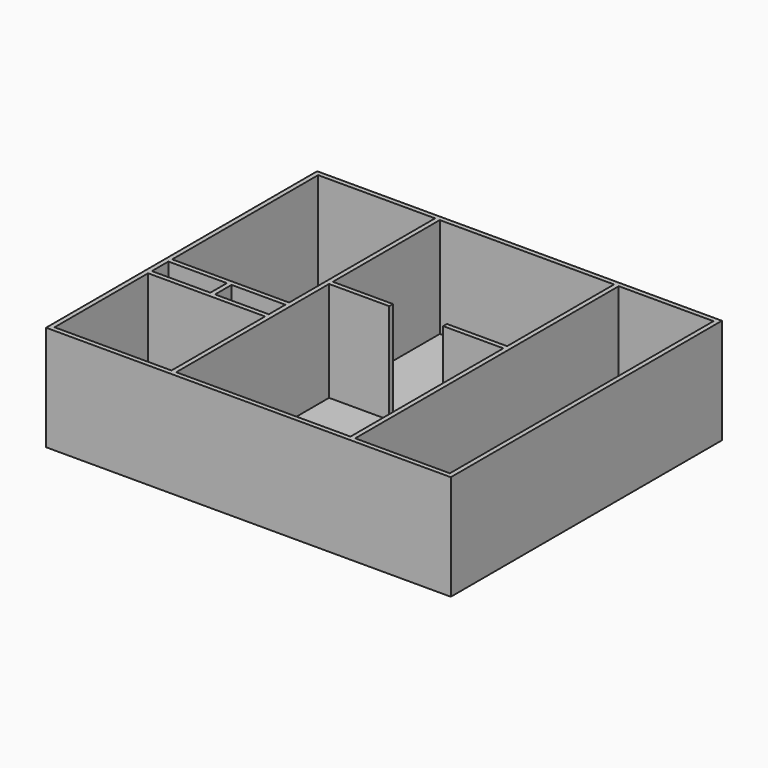
from build123d import *

# Parameters (mm, degrees)
F0_W     = 12306.3
F0_H     = 10302.875
F1_DEPTH = 152.4
F2_W     = 12306.3
F2_H     = 10302.875
F2_W_2   = 3556
F2_H_2   = 3556
F2_W_3   = 1778
F2_H_3   = 628.65
F2_W_4   = 1635.125
F2_H_4   = 5546.725
F2_W_5   = 2879.725
F2_H_5   = 10017.125
F3_DEPTH = 3048


with BuildPart() as f1:
    # F0 (on Top) → F1 (new body)
    with BuildSketch(Plane.XY):
        with Locations((6153.15, -5151.4375)):
            Rectangle(F0_W, F0_H)
    extrude(amount=F1_DEPTH)

    # F2 (on face) → F3 (join)
    with BuildSketch(Plane.XY.offset(152.4)):
        with Locations((6153.15, -5151.4375)):
            Rectangle(F2_W, F2_H)
        with Locations((1920.875, -8382)):
            Rectangle(F2_W_2, F2_H_2, mode=Mode.SUBTRACT)
        with Locations((1031.875, -6146.8)):
            Rectangle(F2_W_3, F2_H_3, mode=Mode.SUBTRACT)
        with Locations((2881.3125, -6146.8)):
            Rectangle(F2_W_4, F2_H_3, mode=Mode.SUBTRACT)
        with Locations((1920.875, -2916.2375)):
            Rectangle(F2_W_2, F2_H_4, mode=Mode.SUBTRACT)
        Polygon((9140.825, -4349.75), (9140.825, -10160), (3841.75, -10160), (3841.75, -4349.75), (5670.55, -4349.75), (5670.55, -4206.875), (3841.75, -4206.875), (3841.75, -142.875), (9140.825, -142.875), (9140.825, -4206.875), (7312.025, -4206.875), (7312.025, -4349.75), align=None, mode=Mode.SUBTRACT)
        with Locations((10723.5625, -5151.4375)):
            Rectangle(F2_W_5, F2_H_5, mode=Mode.SUBTRACT)
    extrude(amount=F3_DEPTH)


solid = f1.part
